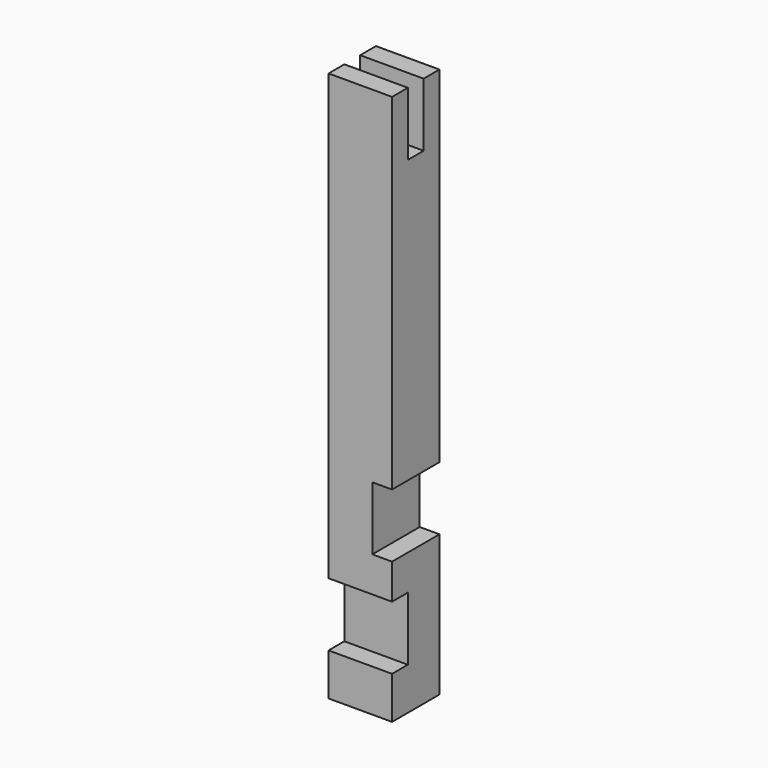
from build123d import *

# Parameters (mm, degrees)
F0_W     = 114.3
F0_H     = 106.68
F1_DEPTH = 990.6
F2_W     = 114.3
F2_H     = 35.56
F3_DEPTH = 114.3
F4_W     = 114.3
F4_H     = 114.3
F5_DEPTH = 35.56
F6_W     = 106.68
F6_H     = 114.3
F7_DEPTH = 35.56


with BuildPart() as f1:
    # F0 (on Top) → F1 (new body)
    with BuildSketch(Plane.XY):
        Rectangle(F0_W, F0_H)
    extrude(amount=F1_DEPTH)

    # F2 (on face) → F3 (cut)
    with BuildSketch(Plane.XY.offset(990.6)):
        Rectangle(F2_W, F2_H)
    extrude(amount=-F3_DEPTH, mode=Mode.SUBTRACT)

    # F4 (on face) → F5 (cut)
    with BuildSketch(Plane.XZ.offset(53.34)):
        with Locations((0, 133.35)):
            Rectangle(F4_W, F4_H)
    extrude(amount=-F5_DEPTH, mode=Mode.SUBTRACT)

    # F6 (on face) → F7 (cut)
    with BuildSketch(Plane.YZ.offset(57.15)):
        with Locations((0, 311.15)):
            Rectangle(F6_W, F6_H)
    extrude(amount=-F7_DEPTH, mode=Mode.SUBTRACT)


solid = f1.part
